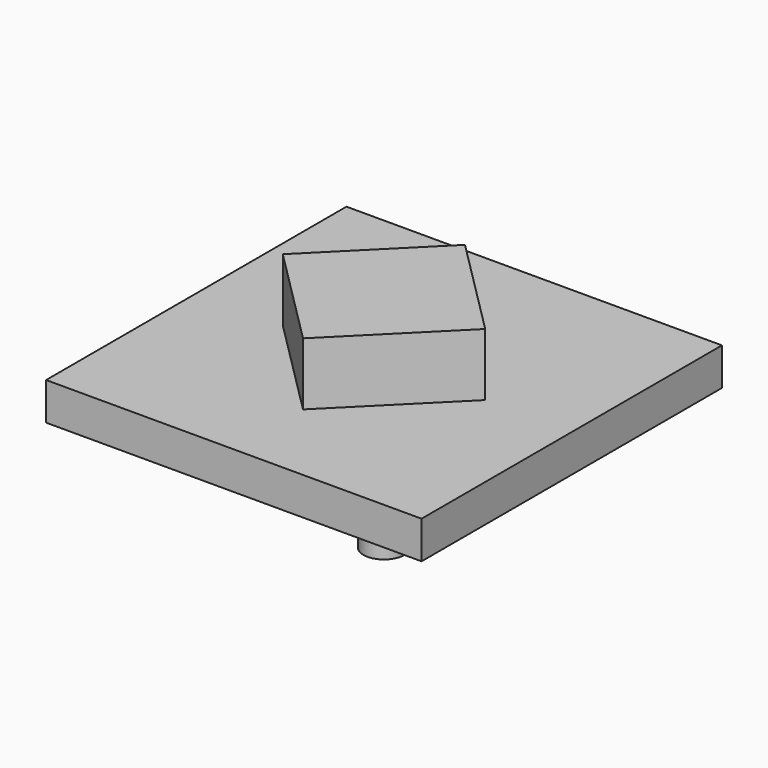
from build123d import *

# Parameters (mm, degrees)
F0_W     = 76.2
F0_H     = 76.2
F1_DEPTH = 7.62
F3_DEPTH = 12.7
F4_R     = 4.137454
F5_DEPTH = 25.4


with BuildPart() as f1:
    # F0 (on Top) → F1 (new body)
    with BuildSketch(Plane.XY):
        Rectangle(F0_W, F0_H)
    extrude(amount=F1_DEPTH)

    # F2 (on face) → F3 (join)
    with BuildSketch(Plane.XY.offset(7.62)):
        Polygon((-20.543544, 0), (0, -20.543544), (20.543544, 0), (0, 20.543544), align=None)
    extrude(amount=F3_DEPTH)

    # F4 (on face) → F5 (join)
    with BuildSketch(Plane(origin=(0, 0, 0), x_dir=(1, 0, 0), z_dir=(0, 0, -1))):
        Circle(F4_R)
    extrude(amount=F5_DEPTH)


solid = f1.part
